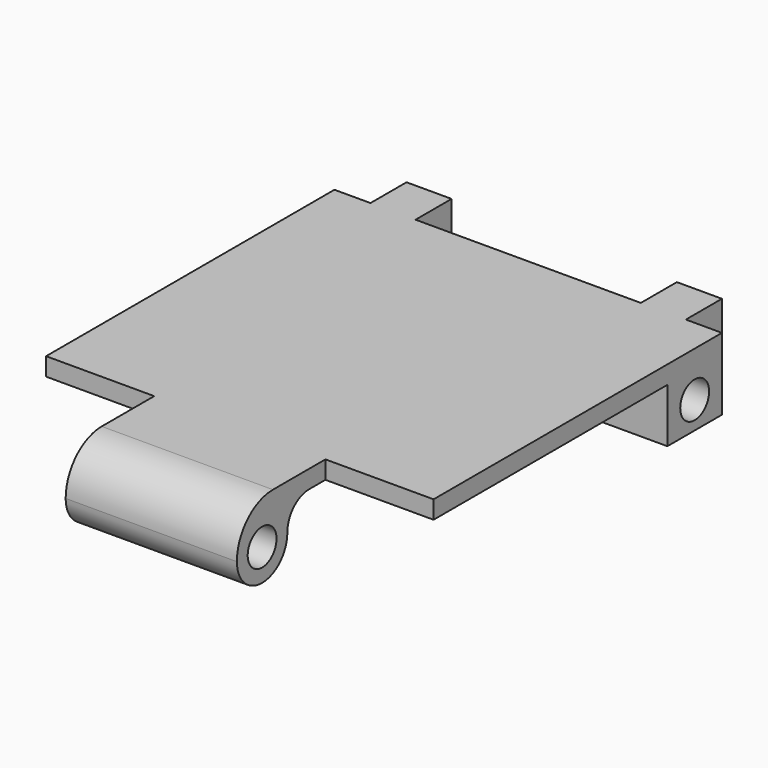
from build123d import *

# Parameters (mm, degrees)
F1_W      = 21.5
F1_H      = 3.7829035334
F2_DEPTH  = 3
F0_W      = 21.5
F0_H      = 20
F3_DEPTH  = 1
F4_R      = 1
F5_DEPTH  = 21.5
F6_R      = 1
F7_DEPTH  = 4.75
F8_W      = 2.5
F8_H      = 2.5
F9_DEPTH  = 3
F11_DEPTH = 25


with BuildPart() as f2:
    # F1 (on face) → F2 (new body)
    with BuildSketch(Plane.XY):
        with Locations((0, 8.1085482333)):
            Rectangle(F1_W, F1_H)
    extrude(amount=-F2_DEPTH)

    # F0 (on Top) → F3 (join)
    with BuildSketch(Plane.XY):
        Rectangle(F0_W, F0_H)
    extrude(amount=F3_DEPTH)

    # F4 (on face) → F5 (cut)
    with BuildSketch(Plane(origin=(-10.75, 0, 0), x_dir=(0, -1, 0), z_dir=(-1, 0, 0))):
        with Locations((-8.1085482333, -1.5)):
            Circle(F4_R)
    extrude(amount=-F5_DEPTH, mode=Mode.SUBTRACT)

    # F6 (on Right) → F7 (join, symmetric)
    with BuildSketch(Plane.YZ):
        with BuildLine():
            ThreePointArc((-13.6414517667, 1), (-15.4092187197, 0.267766953), (-16.1414517667, -1.5))
            ThreePointArc((-16.1414517667, -1.5), (-14.3914517667, -3.25), (-12.6414517667, -1.5))
            ThreePointArc((-12.6414517667, -1.5), (-12.2021119385, -0.4393398282), (-11.1414517667, 0))
            Line((-11.1414517667, 0), (-10, 0))
            Line((-10, 0), (-10, 1))
            Line((-10, 1), (-13.6414517667, 1))
        make_face()
        with Locations((-14.3914517667, -1.5)):
            Circle(F6_R, mode=Mode.SUBTRACT)
        Polygon((10, 1), (-10, 1), (-10, 0), (6.2170964666, 0), (6.2170964666, -3), (10, -3), align=None)
        with Locations((8.1085482333, -1.5)):
            Circle(F6_R, mode=Mode.SUBTRACT)
    extrude(amount=F7_DEPTH, both=True)

    # F8 (on face) → F9 (join)
    with BuildSketch(Plane.XY.offset(1)):
        with Locations((-7.5, 11.25)):
            Rectangle(F8_W, F8_H)
        with Locations((7.5, 11.25)):
            Rectangle(F8_W, F8_H)
    extrude(amount=-F9_DEPTH)

    # F10 (on face) → F11 (cut)
    with BuildSketch(Plane(origin=(-8.75, 0, 0), x_dir=(0, -1, 0), z_dir=(-1, 0, 0))):
        with BuildLine():
            Line((-12.5, -2), (-10, -2))
            ThreePointArc((-10, -2), (-11.25, -1.2205063265), (-12.5, -2))
        make_face()
    extrude(amount=-F11_DEPTH, mode=Mode.SUBTRACT)


solid = f2.part
